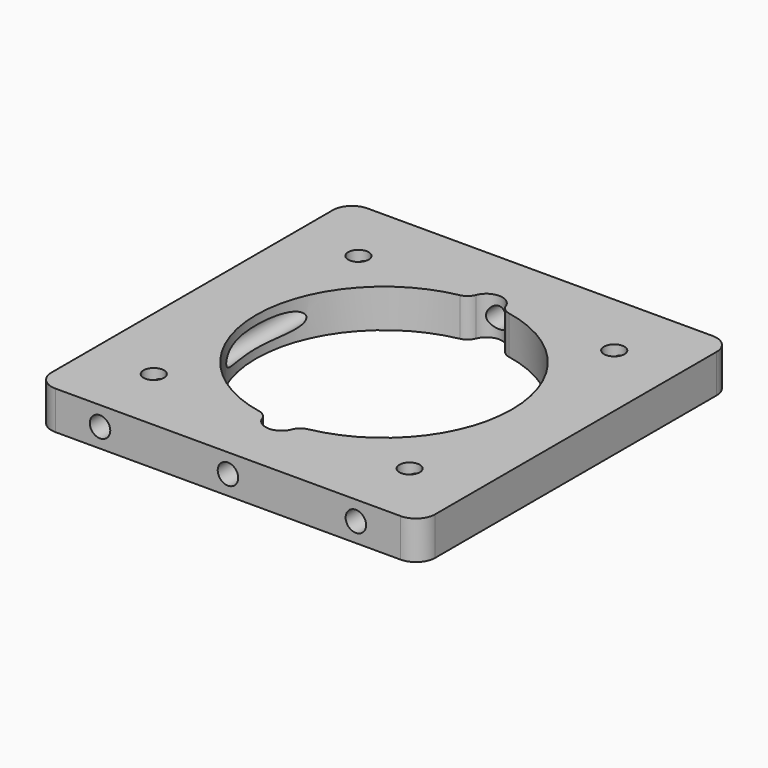
from build123d import *

# Parameters (mm, degrees)
F0_R     = 0.8
F1_DEPTH = 3
F2_R     = 0.8
F3_DEPTH = 30.501
F4_R     = 1


with BuildPart() as f1:
    # F0 (on Top) → F1 (new body)
    with BuildSketch(Plane.XY):
        with BuildLine():
            Line((13.5, 15.25), (-13.5, 15.25))
            ThreePointArc((-13.5, 15.25), (-14.56066, 14.81066), (-15, 13.75))
            Line((-15, 13.75), (-15, -13.75))
            ThreePointArc((-15, -13.75), (-14.56066, -14.81066), (-13.5, -15.25))
            Line((-13.5, -15.25), (13.5, -15.25))
            ThreePointArc((13.5, -15.25), (14.56066, -14.81066), (15, -13.75))
            Line((15, -13.75), (15, 13.75))
            ThreePointArc((15, 13.75), (14.56066, 14.81066), (13.5, 15.25))
        make_face()
        with Locations((-10, -10)):
            Circle(F0_R, mode=Mode.SUBTRACT)
        with Locations((10, -10)):
            Circle(F0_R, mode=Mode.SUBTRACT)
        with Locations((-10, 10)):
            Circle(F0_R, mode=Mode.SUBTRACT)
        with BuildLine():
            ThreePointArc((1.25, 9.921567), (7.5, 6.614378), (10, 0))
            ThreePointArc((10, 0), (7.5, -6.614378), (1.25, -9.921567))
            Line((1.25, -9.921567), (1.25, -10))
            ThreePointArc((1.25, -10), (0, -11.25), (-1.25, -10))
            Line((-1.25, -10), (-1.25, -9.921567))
            ThreePointArc((-1.25, -9.921567), (-10, 0), (-1.25, 9.921567))
            Line((-1.25, 9.921567), (-1.25, 10))
            ThreePointArc((-1.25, 10), (0, 11.25), (1.25, 10))
            Line((1.25, 10), (1.25, 9.921567))
        make_face(mode=Mode.SUBTRACT)
        with Locations((10, 10)):
            Circle(F0_R, mode=Mode.SUBTRACT)
    extrude(amount=F1_DEPTH)

    # F2 (on face) → F3 (cut, through all)
    with BuildSketch(Plane.XZ.offset(15.25)):
        with Locations((0, 1.5)):
            Circle(F2_R)
        with Locations((10, 1.5)):
            Circle(F2_R)
        with Locations((-10, 1.5)):
            Circle(F2_R)
    extrude(amount=-F3_DEPTH, mode=Mode.SUBTRACT)

    # F4
    f4_edges = [f1.edges().sort_by_distance(p)[0] for p in [
        (1.25, 9.921567, 1.5),
        (-1.25, 9.921567, 1.5),
        (-1.25, -9.921567, 1.5),
        (1.25, -9.921567, 1.5),
    ]]
    fillet(f4_edges, radius=F4_R)


solid = f1.part
